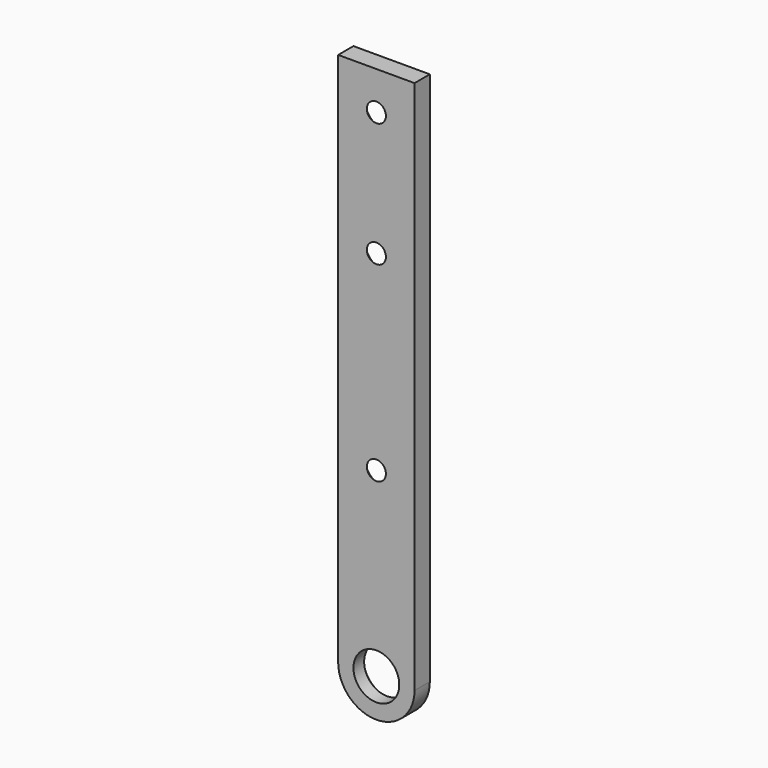
from build123d import *

# Parameters (mm, degrees)
F1_DEPTH       = 3.175
F2_D           = 2.54
F2_CSINK_D     = 9.525
F2_CSINK_ANGLE = 90
F3_D           = 7.62
F3_CSINK_D     = 9.525
F3_CSINK_ANGLE = 90


with BuildPart() as f1:
    # F0 (on Front) → F1 (new body)
    with BuildSketch(Plane.XZ):
        with BuildLine():
            Line((6.35, 0), (6.35, 88.9))
            Line((6.35, 88.9), (-6.35, 88.9))
            Line((-6.35, 88.9), (-6.35, 0))
            ThreePointArc((-6.35, 0), (0, -6.35), (6.35, 0))
        make_face()
    extrude(amount=F1_DEPTH)

    # F2 (through all)
    with Locations(Plane(origin=(0, 0, 0), x_dir=(1, 0, 0), z_dir=(0, 1, 0))):
        with Locations((0, -82.55), (0, -61.9125), (0, -30.1625)):
            CounterSinkHole(F2_D / 2, F2_CSINK_D / 2, counter_sink_angle=F2_CSINK_ANGLE)

    # F3 (through all)
    with Locations(Plane(origin=(0, 0, 0), x_dir=(1, 0, 0), z_dir=(0, 1, 0))):
        with Locations((0, 0)):
            CounterSinkHole(F3_D / 2, F3_CSINK_D / 2, counter_sink_angle=F3_CSINK_ANGLE)


solid = f1.part
